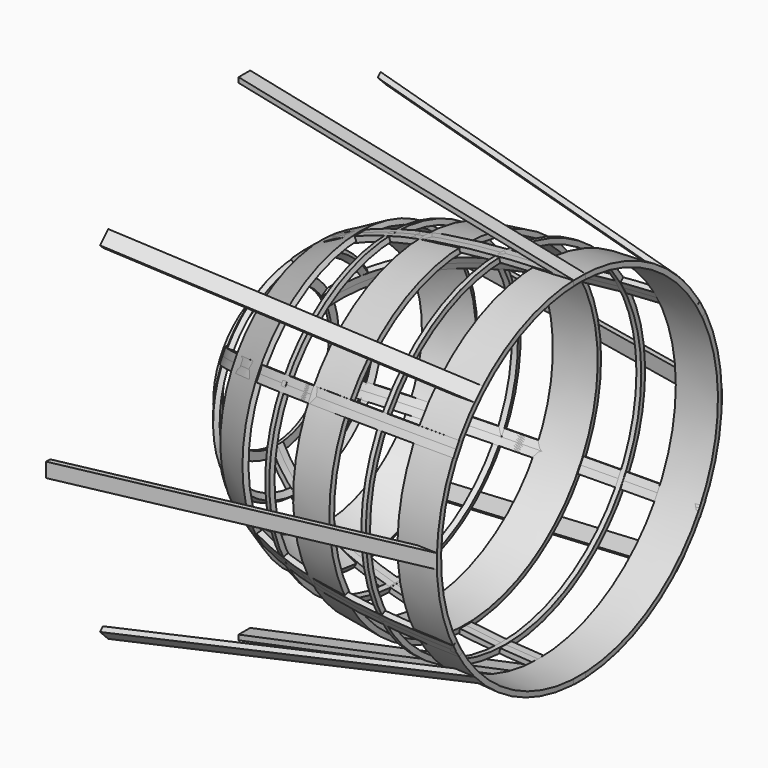
from build123d import *

# Parameters (mm, degrees)
F1_DEPTH = 0.254
F2_W     = 0.102156
F2_H     = 0.29208
F4_COUNT = 6
F8_DEPTH = 0.254
F9_COUNT = 8


with BuildPart() as f1:
    # F0 (on Front) → F1 (new body, symmetric)
    with BuildSketch(Plane.XZ):
        with BuildLine():
            add(Edge.make_bspline(
                [(0, 2.689089), (1.381238, 5.528054), (5.991165, 6.17292), (10.597174, 6.240298)],
                knots=[0, 0, 0, 0, 11.176367, 11.176367, 11.176367, 11.176367], degree=3))
            Line((0, 2.689089), (0, 2.384289))
            add(Edge.make_bspline(
                [(0, 2.384289), (1.486264, 5.378089), (5.991165, 5.996879), (10.597174, 6.064257)],
                knots=[0, 0, 0, 0, 11.217944, 11.217944, 11.217944, 11.217944], degree=3))
            Line((10.597174, 6.064257), (10.597174, 6.240298))
        make_face()
        with BuildLine():
            Line((0, -2.384298), (0, -2.689098))
            add(Edge.make_bspline(
                [(0, -2.689098), (1.381238, -5.528063), (5.991165, -6.172914), (10.597174, -6.240292)],
                knots=[0, 0, 0, 0, 11.176362, 11.176362, 11.176362, 11.176362], degree=3))
            Line((10.597174, -6.240292), (10.597174, -6.06425))
            add(Edge.make_bspline(
                [(0, -2.384298), (1.486264, -5.378098), (5.991165, -5.996872), (10.597174, -6.06425)],
                knots=[0, 0, 0, 0, 11.217939, 11.217939, 11.217939, 11.217939], degree=3))
        make_face()
    extrude(amount=F1_DEPTH, both=True)


with BuildPart() as f3:
    # F2 (on Front) → F3 (revolve)
    with BuildSketch(Plane.XZ):
        with Locations((-0.051078, 2.537632)):
            Rectangle(F2_W, F2_H)
    revolve(axis=Axis((2.085268, 0, 0), (1, 0, 0)))


with BuildPart() as f4_1:
    # F4: instance of F1
    add(f1.part.rotate(Axis((0, 0, 0), (1, 0, 0)), 1 * 360 / F4_COUNT))


with BuildPart() as f4_2:
    # F4: instance of F1
    add(f1.part.rotate(Axis((0, 0, 0), (1, 0, 0)), 2 * 360 / F4_COUNT))


with BuildPart() as f4_3:
    # F4: instance of F1
    add(f1.part.rotate(Axis((0, 0, 0), (1, 0, 0)), 3 * 360 / F4_COUNT))


with BuildPart() as f4_4:
    # F4: instance of F1
    add(f1.part.rotate(Axis((0, 0, 0), (1, 0, 0)), 4 * 360 / F4_COUNT))


with BuildPart() as f4_5:
    # F4: instance of F1
    add(f1.part.rotate(Axis((0, 0, 0), (1, 0, 0)), 5 * 360 / F4_COUNT))


with BuildPart() as f6:
    # F5 (on Front) → F6 (revolve)
    with BuildSketch(Plane.XZ):
        Polygon((10.598077, 6.069279), (10.589982, 6.247933), (9.1622, 6.18324), (9.170295, 6.004586), align=None)
        Polygon((8.007471, 5.944466), (7.999377, 6.12312), (7.836114, 6.115723), (7.844209, 5.937068), align=None)
        Polygon((6.61266, 5.778916), (6.589025, 5.956185), (5.168481, 5.766788), (5.192116, 5.589519), align=None)
        Polygon((4.170023, 5.336706), (4.122536, 5.509123), (3.942297, 5.459482), (3.989784, 5.287064), align=None)
        Polygon((2.975702, 4.982826), (2.891253, 5.1444), (1.557806, 4.44746), (1.642255, 4.285885), align=None)
        Polygon((0.825687, 3.562594), (0.68793, 3.676638), (0.542983, 3.501552), (0.68074, 3.387508), align=None)
    revolve(axis=Axis((5.515193, 0, 0), (1, 0, 0)))


with BuildPart() as f8:
    # F7 (on Front) → F8 (new body, symmetric)
    with BuildSketch(Plane.XZ):
        Polygon((10.596883, 6.243781), (-1.155209, 8.69373), (-1.155209, 8.515767), (9.884084, 6.214415), align=None)
    extrude(amount=F8_DEPTH, both=True)


with BuildPart() as f9_1:
    # F9: instance of F8
    add(f8.part.rotate(Axis((9.1622, 0, 0), (1, 0, 0)), 1 * 360 / F9_COUNT))


with BuildPart() as f9_2:
    # F9: instance of F8
    add(f8.part.rotate(Axis((9.1622, 0, 0), (1, 0, 0)), 2 * 360 / F9_COUNT))


with BuildPart() as f9_3:
    # F9: instance of F8
    add(f8.part.rotate(Axis((9.1622, 0, 0), (1, 0, 0)), 3 * 360 / F9_COUNT))


with BuildPart() as f9_4:
    # F9: instance of F8
    add(f8.part.rotate(Axis((9.1622, 0, 0), (1, 0, 0)), 4 * 360 / F9_COUNT))


with BuildPart() as f9_5:
    # F9: instance of F8
    add(f8.part.rotate(Axis((9.1622, 0, 0), (1, 0, 0)), 5 * 360 / F9_COUNT))


with BuildPart() as f9_6:
    # F9: instance of F8
    add(f8.part.rotate(Axis((9.1622, 0, 0), (1, 0, 0)), 6 * 360 / F9_COUNT))


with BuildPart() as f9_7:
    # F9: instance of F8
    add(f8.part.rotate(Axis((9.1622, 0, 0), (1, 0, 0)), 7 * 360 / F9_COUNT))


solid = Compound([f1.part, f3.part, f4_1.part, f4_2.part, f4_3.part, f4_4.part, f4_5.part, f6.part, f8.part, f9_1.part, f9_2.part, f9_3.part, f9_4.part, f9_5.part, f9_6.part, f9_7.part])
